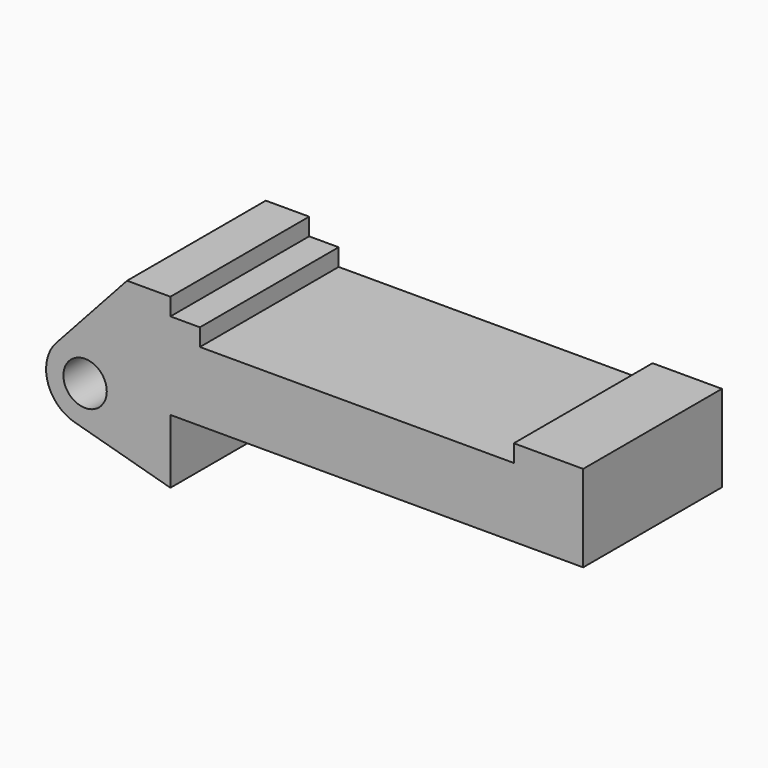
from build123d import *

# Parameters (mm, degrees)
F0_R     = 3.175
F0_W     = 5.842
F0_H     = 12.7
F1_DEPTH = 25.4


with BuildPart() as f1:
    # F0 (on Front) → F1 (new body)
    with BuildSketch(Plane.XZ):
        with BuildLine():
            Line((-0.9398, 0), (0, 0))
            Line((0, 0), (0, 12.7))
            Line((0, 12.7), (5.842, 12.7))
            Line((5.842, 12.7), (5.842, 15.24))
            Line((5.842, 15.24), (-0.508, 15.24))
            Line((-0.508, 15.24), (-10.88063, 3.847543))
            ThreePointArc((-10.88063, 3.847543), (-4.591961, 5.329721), (-0.9398, 0))
        make_face()
        with BuildLine():
            ThreePointArc((-8.182663, -5.506983), (-3.195791, -4.549339), (-0.9398, 0))
            ThreePointArc((-0.9398, 0), (-4.591961, 5.329721), (-10.88063, 3.847543))
            ThreePointArc((-10.88063, 3.847543), (-12.145978, -1.583727), (-8.182663, -5.506983))
        make_face()
        with Locations((-6.6548, 0)):
            Circle(F0_R, mode=Mode.SUBTRACT)
        with BuildLine():
            Line((5.842, 0), (0, 0))
            Line((0, 0), (-0.9398, 0))
            ThreePointArc((-0.9398, 0), (-3.195791, -4.549339), (-8.182663, -5.506983))
            Line((-8.182663, -5.506983), (5.842, -9.398))
            Line((5.842, -9.398), (5.842, 0))
        make_face()
        with Locations((2.921, 6.35)):
            Rectangle(F0_W, F0_H)
        Polygon((5.842, 12.7), (5.842, 0), (66.294, 0), (66.294, 12.7), (56.134, 12.7), (56.134, 10.16), (10.16, 10.16), (10.16, 12.7), align=None)
    extrude(amount=F1_DEPTH)


solid = f1.part
